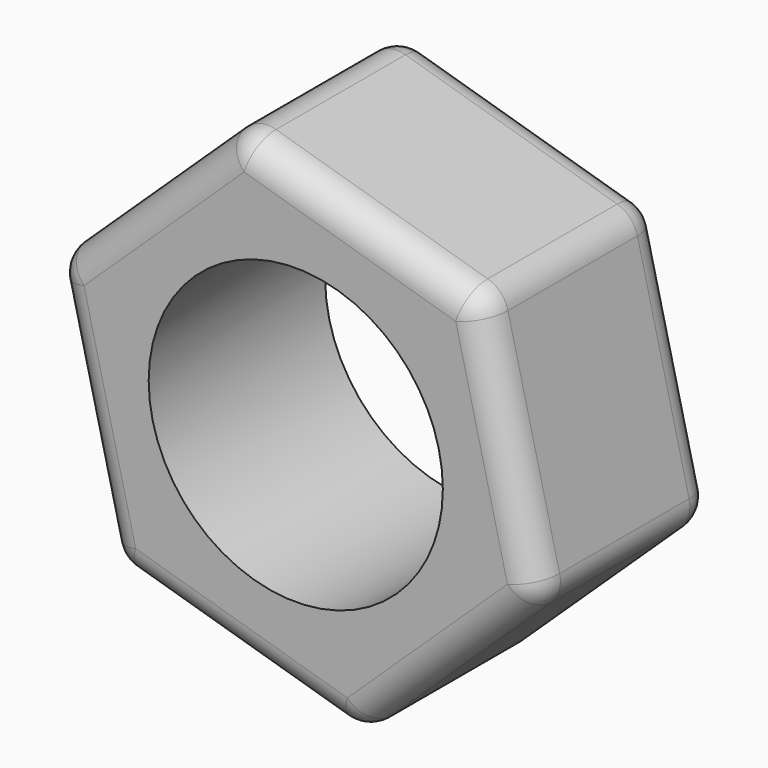
from build123d import *

# Parameters (mm, degrees)
F0_R     = 12.7
F1_DEPTH = 19.05
F2_R     = 2.54


with BuildPart() as f1:
    # F0 (on Front) → F1 (new body)
    with BuildSketch(Plane.XZ):
        Polygon((5.144296, -21.387057), (21.093883, -6.238438), (15.949587, 15.148619), (-5.144296, 21.387057), (-21.093883, 6.238438), (-15.949587, -15.148619), align=None)
        Circle(F0_R, mode=Mode.SUBTRACT)
    extrude(amount=F1_DEPTH)

    # F2
    f2_edges = [f1.edges().sort_by_distance(p)[0] for p in [
        (-5.402646, -19.05, -18.267838),
        (13.119089, -19.05, -13.812748),
        (18.521735, -19.05, 4.455091),
        (5.402646, -19.05, 18.267838),
        (-13.119089, -19.05, 13.812748),
        (-18.521735, -19.05, -4.455091),
        (-5.402646, 0, -18.267838),
        (-15.949587, -9.525, -15.148619),
        (-18.521735, 0, -4.455091),
        (-13.119089, 0, 13.812748),
        (5.402646, 0, 18.267838),
        (18.521735, 0, 4.455091),
        (13.119089, 0, -13.812748),
        (-21.093883, -9.525, 6.238438),
        (-5.144296, -9.525, 21.387057),
        (15.949587, -9.525, 15.148619),
        (21.093883, -9.525, -6.238438),
        (5.144296, -9.525, -21.387057),
    ]]
    fillet(f2_edges, radius=F2_R)


solid = f1.part
